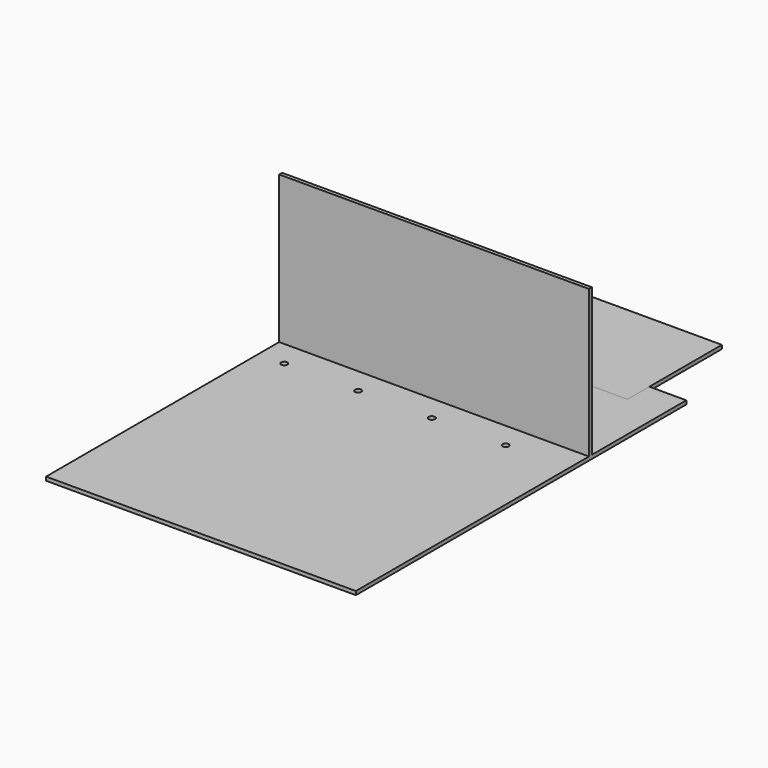
from build123d import *

# Parameters (mm, degrees)
F0_W     = 266.7
F0_H     = 355.6
F0_R     = 2.667
F1_DEPTH = 3.175
F2_W     = 203.2
F2_H     = 101.6
F3_DEPTH = 3.175
F5_W     = 266.7
F5_H     = 127
F6_DEPTH = 3.175


with BuildPart() as f1:
    # F0 (on Top) → F1 (new body)
    with BuildSketch(Plane.XY):
        Rectangle(F0_W, F0_H)
        with Locations((-111.125, 50.8)):
            Circle(F0_R, mode=Mode.SUBTRACT)
        with Locations((-47.625, 50.8)):
            Circle(F0_R, mode=Mode.SUBTRACT)
        with Locations((15.875, 50.8)):
            Circle(F0_R, mode=Mode.SUBTRACT)
        with Locations((79.375, 50.8)):
            Circle(F0_R, mode=Mode.SUBTRACT)
    extrude(amount=F1_DEPTH)


with BuildPart() as f3:
    # F2 (on Top) → F3 (new body)
    with BuildSketch(Plane.XY):
        with Locations((0, 205.014408)):
            Rectangle(F2_W, F2_H)
    extrude(amount=F3_DEPTH)


with BuildPart() as f6:
    # F5 (on offset) → F6 (new body)
    with BuildSketch(Plane.XZ.offset(-76.2)):
        with Locations((0, 66.675)):
            Rectangle(F5_W, F5_H)
    extrude(amount=F6_DEPTH)


solid = Compound([f1.part, f3.part, f6.part])
